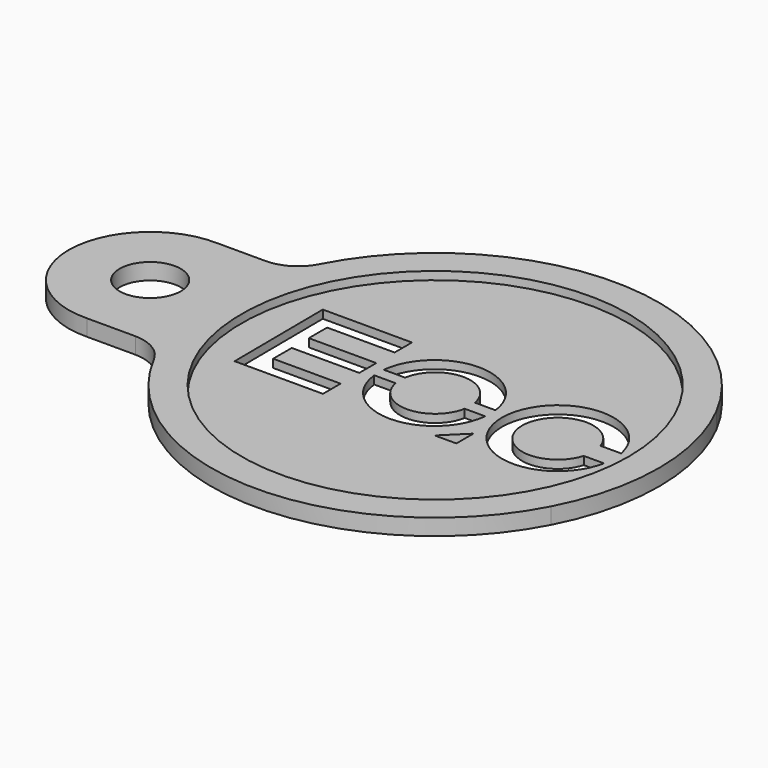
from build123d import *

# Parameters (mm, degrees)
F0_R     = 7.5
F1_DEPTH = 4
F2_R     = 47.5
F3_DEPTH = 2


with BuildPart() as f1:
    # F0 (on Top) → F1 (new body)
    with BuildSketch(Plane.XY):
        with BuildLine():
            ThreePointArc((48.793598, -25.380795), (55, 0), (48.793598, 25.380795))
            ThreePointArc((48.793598, 25.380795), (0, 55), (-48.793598, 25.380795))
            ThreePointArc((-48.793598, 25.380795), (-52.476082, 21.447184), (-57.665162, 19.995485))
            Line((-57.665162, 19.995485), (-69.575047, 19.995485))
            ThreePointArc((-69.575047, 19.995485), (-90, 0), (-69.575047, -19.995485))
            Line((-69.575047, -19.995485), (-57.665162, -19.995485))
            ThreePointArc((-57.665162, -19.995485), (-52.476082, -21.447184), (-48.793598, -25.380795))
            ThreePointArc((-48.793598, -25.380795), (0, -55), (48.793598, -25.380795))
        make_face()
        with BuildLine():
            Line((-14.122061, -1.061549), (-8.863275, -1.061549))
            ThreePointArc((-8.863275, -1.061549), (-0.377526, -8.140691), (8.108223, -1.061549))
            Line((8.108223, -1.061549), (13.140175, -1.061549))
            ThreePointArc((13.140175, -1.061549), (-0.490943, -13.299361), (-14.122061, -1.061549))
        make_face(mode=Mode.SUBTRACT)
        Polygon((15.867272, -13.324826), (10.545351, -13.324826), (15.867272, -8.105249), align=None, mode=Mode.SUBTRACT)
        with Locations((-70, 0)):
            Circle(F0_R, mode=Mode.SUBTRACT)
        Polygon((-38.682424, -13.222481), (-38.88711, 14.103536), (-16.985359, 14.103536), (-16.985359, 8.781616), (-33.56519, 8.781616), (-33.56519, 3.15266), (-16.985359, 3.15266), (-16.985359, -2.066917), (-33.56519, -2.066917), (-33.56519, -7.798216), (-16.985359, -7.798216), (-16.985359, -13.222481), align=None, mode=Mode.SUBTRACT)
        with BuildLine():
            Line((-8.888827, 1.883693), (-14.122061, 1.883693))
            ThreePointArc((-14.122061, 1.883693), (-0.616452, 14.120931), (13.11093, 2.133002))
            Line((13.11093, 2.133002), (8.089031, 2.133002))
            ThreePointArc((8.089031, 2.133002), (-0.504172, 9.109367), (-8.888827, 1.883693))
        make_face(mode=Mode.SUBTRACT)
        with BuildLine():
            Line((43.138086, 3.184188), (38.076556, 3.184188))
            ThreePointArc((38.076556, 3.184188), (21.073718, 0.220128), (38.176801, -2.096486))
            Line((38.176801, -2.096486), (43.139325, -2.096486))
            ThreePointArc((43.139325, -2.096486), (15.989954, 0.537485), (43.138086, 3.184188))
        make_face(mode=Mode.SUBTRACT)
    extrude(amount=F1_DEPTH)

    # F2 (on face) → F3 (cut)
    with BuildSketch(Plane.XY.offset(4)):
        Circle(F2_R)
        with BuildLine():
            ThreePointArc((13.140175, -1.061549), (-0.490943, -13.299361), (-14.122061, -1.061549))
            Line((-14.122061, -1.061549), (-8.863275, -1.061549))
            ThreePointArc((-8.863275, -1.061549), (-0.377526, -8.140691), (8.108223, -1.061549))
            Line((8.108223, -1.061549), (13.140175, -1.061549))
        make_face(mode=Mode.SUBTRACT)
        Polygon((15.867272, -8.105249), (15.867272, -13.324826), (10.545351, -13.324826), align=None, mode=Mode.SUBTRACT)
        Polygon((-16.985359, -13.222481), (-38.682424, -13.222481), (-38.88711, 14.103536), (-16.985359, 14.103536), (-16.985359, 8.781616), (-33.56519, 8.781616), (-33.56519, 3.15266), (-16.985359, 3.15266), (-16.985359, -2.066917), (-33.56519, -2.066917), (-33.56519, -7.798216), (-16.985359, -7.798216), align=None, mode=Mode.SUBTRACT)
        with BuildLine():
            Line((13.11093, 2.133002), (8.089031, 2.133002))
            ThreePointArc((8.089031, 2.133002), (-0.504172, 9.109367), (-8.888827, 1.883693))
            Line((-8.888827, 1.883693), (-14.122061, 1.883693))
            ThreePointArc((-14.122061, 1.883693), (-0.616452, 14.120931), (13.11093, 2.133002))
        make_face(mode=Mode.SUBTRACT)
        with BuildLine():
            ThreePointArc((38.076556, 3.184188), (21.073718, 0.220128), (38.176801, -2.096486))
            Line((38.176801, -2.096486), (43.139325, -2.096486))
            ThreePointArc((43.139325, -2.096486), (15.989954, 0.537485), (43.138086, 3.184188))
            Line((43.138086, 3.184188), (38.076556, 3.184188))
        make_face(mode=Mode.SUBTRACT)
    extrude(amount=-F3_DEPTH, mode=Mode.SUBTRACT)


solid = f1.part
